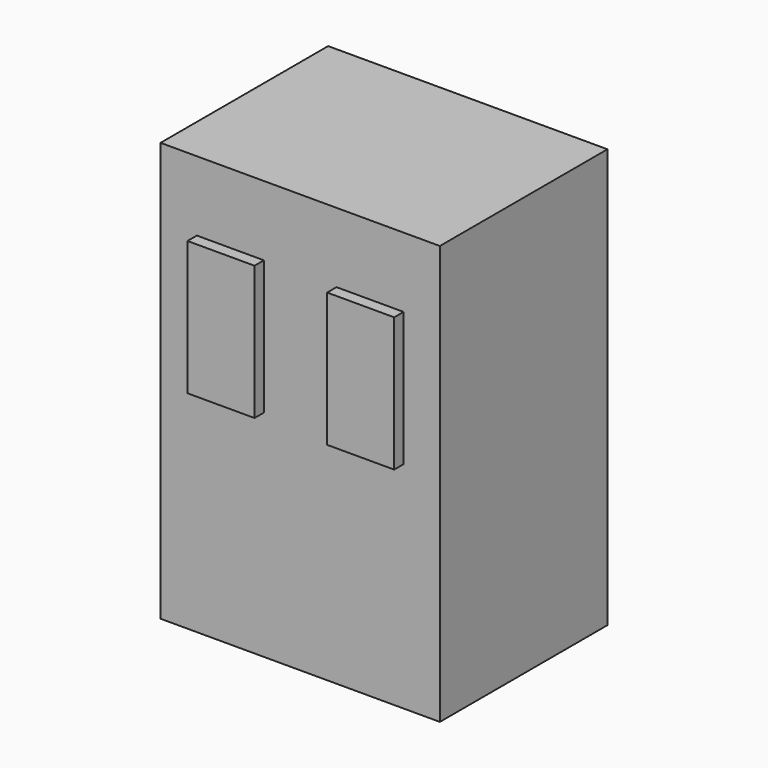
from build123d import *

# Parameters (mm, degrees)
F0_W     = 200
F0_H     = 300
F1_DEPTH = 150
F2_W     = 48
F2_H     = 96
F3_DEPTH = 8.4


with BuildPart() as f1:
    # F0 (on Front) → F1 (new body)
    with BuildSketch(Plane.XZ):
        with Locations((100, 150)):
            Rectangle(F0_W, F0_H)
    extrude(amount=F1_DEPTH)


with BuildPart() as f3:
    # F2 (on face) → F3 (new body)
    with BuildSketch(Plane.XZ.offset(150)):
        with Locations((50, 202)):
            Rectangle(F2_W, F2_H)
        with Locations((150, 202)):
            Rectangle(F2_W, F2_H)
    extrude(amount=F3_DEPTH)


solid = Compound([f1.part, f3.part])
